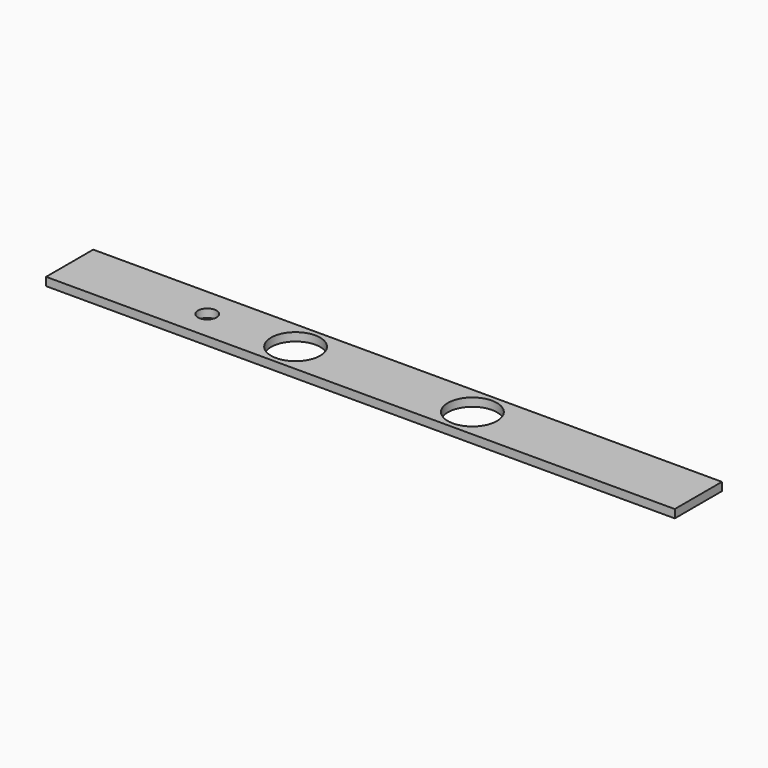
from build123d import *

# Parameters (mm, degrees)
F0_W     = 406.4
F0_H     = 38.1
F0_R     = 6.0325
F0_R_2   = 15.875
F1_DEPTH = 5.334


with BuildPart() as f1:
    # F0 (on Top) → F1 (new body)
    with BuildSketch(Plane.XY):
        with Locations((203.2, 19.05)):
            Rectangle(F0_W, F0_H)
        with Locations((88.9, 19.05)):
            Circle(F0_R, mode=Mode.SUBTRACT)
        with Locations((146.05, 19.05)):
            Circle(F0_R_2, mode=Mode.SUBTRACT)
        with Locations((260.35, 19.05)):
            Circle(F0_R_2, mode=Mode.SUBTRACT)
    extrude(amount=F1_DEPTH)


solid = f1.part
